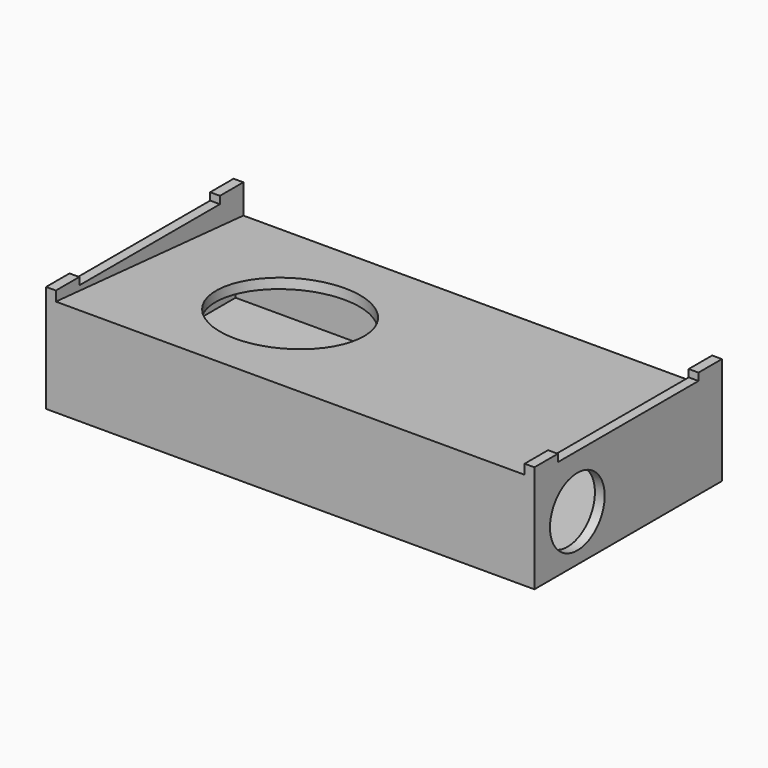
from build123d import *

# Parameters (mm, degrees)
F0_W      = 635
F0_H      = 304.8
F1_DEPTH  = 127
F3_DEPTH  = 635.001
F4_T      = -12.7
F5_R      = 89.535
F6_DEPTH  = 12.7
F8_D      = 88.9
F8_DEPTH  = 25.4
F8_TIP    = 26.7082545158
F10_DEPTH = 12.7
F12_DEPTH = 12.7


with BuildPart() as f1:
    # F0 (on Top) → F1 (new body)
    with BuildSketch(Plane.XY):
        Rectangle(F0_W, F0_H)
    extrude(amount=F1_DEPTH)

    # F2 (on face) → F3 (cut, through all)
    with BuildSketch(Plane.YZ.offset(317.5)):
        Polygon((-152.4, 127), (152.4, 101.6), (152.4, 127), align=None)
    extrude(amount=-F3_DEPTH, mode=Mode.SUBTRACT)

    # F4 (hollow: no face is removed)
    offset(amount=F4_T, mode=Mode.SUBTRACT)

    # F5 (on face) → F6 (cut, through all)
    with BuildSketch(Plane(origin=(0, 9.4593103448, 113.5117241379), x_dir=(1, 0, 0), z_dir=(0, 0.0830454799, 0.9965457582))):
        with Locations((-117.475, -15.3138471966)):
            Circle(F5_R)
    extrude(amount=-F6_DEPTH, mode=Mode.SUBTRACT)

    # F8
    with Locations(Plane.YZ.offset(317.5)):
        with Locations((-82.6105548445, 60.5921064519)):
            Hole(F8_D / 2, depth=F8_DEPTH)
            with Locations((0, 0, -(F8_DEPTH + F8_TIP / 2))):  # 118° drill point
                Cone(0, F8_D / 2, F8_TIP, mode=Mode.SUBTRACT)

    # F9 (on face) → F10 (join)
    with BuildSketch(Plane.YZ.offset(317.5)):
        Polygon((-152.4, 139.7), (-152.4, 127), (152.4, 101.6), (152.4, 139.7), (114.3, 139.7), (114.3, 130.104392767), (-114.3, 130.104392767), (-114.3, 139.7), align=None)
    extrude(amount=-F10_DEPTH)

    # F11 (on face) → F12 (join)
    with BuildSketch(Plane(origin=(-317.5, 0, 0), x_dir=(0, -1, 0), z_dir=(-1, 0, 0))):
        Polygon((-152.4, 139.7), (-152.4, 101.6), (152.4, 127), (152.4, 139.7), (114.3, 139.7), (114.3, 130.104392767), (-114.3, 130.104392767), (-114.3, 139.7), align=None)
    extrude(amount=-F12_DEPTH)


solid = f1.part
